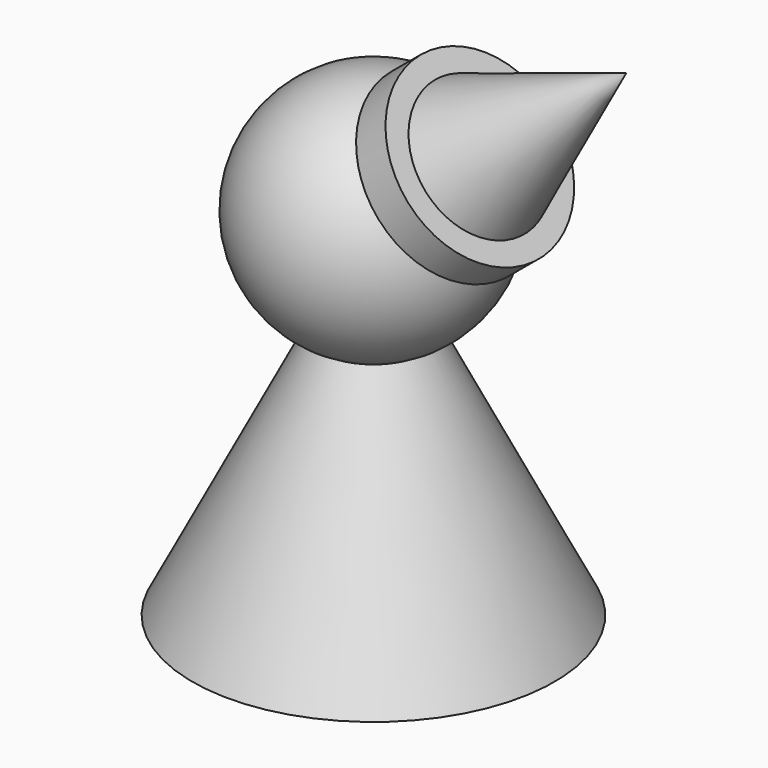
from build123d import *


with BuildPart() as f2:
    # F0 (on Front) → F2 (revolve)
    with BuildSketch(Plane.XZ):
        with BuildLine():
            Line((-16.1160602198, -4.0539470435), (0, 27.6409722865))
            Line((0, 27.6409722865), (0, 63.1979028112))
            ThreePointArc((0, 63.1979028112), (-34.5779507269, 35.9271434088), (-16.1160602198, -4.0539470435))
        make_face()
        with BuildLine():
            Line((0, -7.9159582382), (0, 27.6409722865))
            Line((0, 27.6409722865), (-16.1160602198, -4.0539470435))
            ThreePointArc((-16.1160602198, -4.0539470435), (-8.2861711223, -6.9369784404), (0, -7.9159582382))
        make_face()
        with BuildLine():
            ThreePointArc((0, -7.9159582382), (-8.2861711223, -6.9369784404), (-16.1160602198, -4.0539470435))
            Line((-16.1160602198, -4.0539470435), (-53.4986481071, -77.5730386376))
            Line((-53.4986481071, -77.5730386376), (0, -77.5730386376))
            Line((0, -77.5730386376), (0, -7.9159582382))
        make_face()
    revolve(axis=Axis((0, 0, 27.6409722865), (0, 0, -1)))

    # F1 (on Front) → F3 (revolve)
    with BuildSketch(Plane.XZ):
        Polygon((14.0433989, 72.7496286321), (5.3498703055, 65.5358508229), (22.7369274944, 44.5822142065), (74.7502580711, 87.7422045163), (18.2899444004, 67.6319959974), align=None)
    revolve(axis=Axis((48.7435927828, 0, 66.1622093614), (0.769561748, 0, 0.6385724047)))


solid = f2.part
